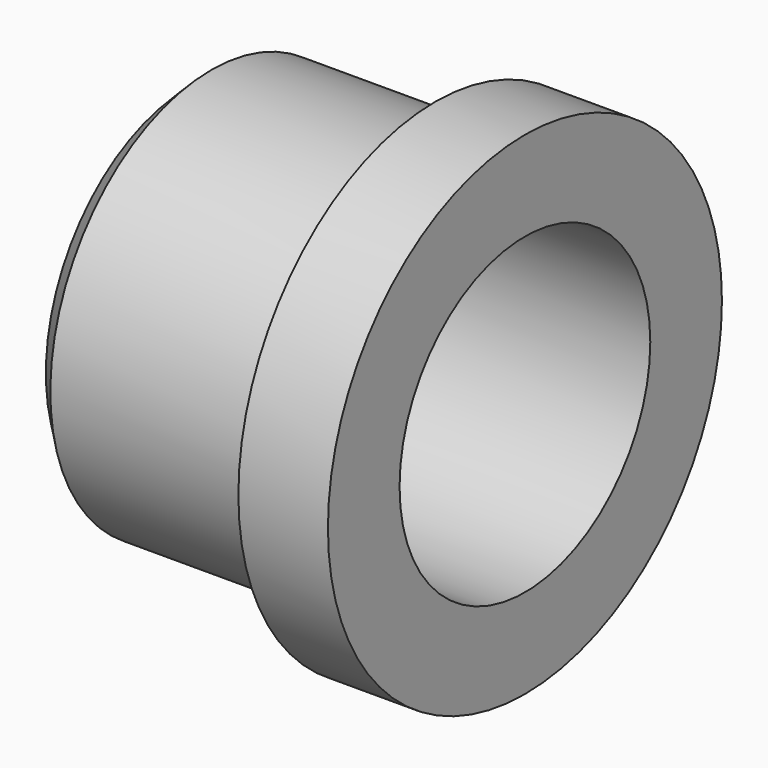
from build123d import *

# Parameters (mm, degrees)
F2_R     = 7
F3_DEPTH = 15
F4_SIZE  = 1


with BuildPart() as f1:
    # F0 (on Front) → F1 (revolve)
    with BuildSketch(Plane.XZ):
        Polygon((0, 9), (0, 0), (15, 0), (15, 11), (11, 11), (11, 9), align=None)
    revolve(axis=Axis((7.5, 0, 0), (-1, 0, 0)))

    # F2 (on Right) → F3 (cut)
    with BuildSketch(Plane.YZ):
        Circle(F2_R)
    extrude(amount=F3_DEPTH, mode=Mode.SUBTRACT)

    # F4
    f4_edges = [f1.edges().sort_by_distance(p)[0] for p in [
        (0, 0, -9),
    ]]
    chamfer(f4_edges, length=F4_SIZE)


solid = f1.part
